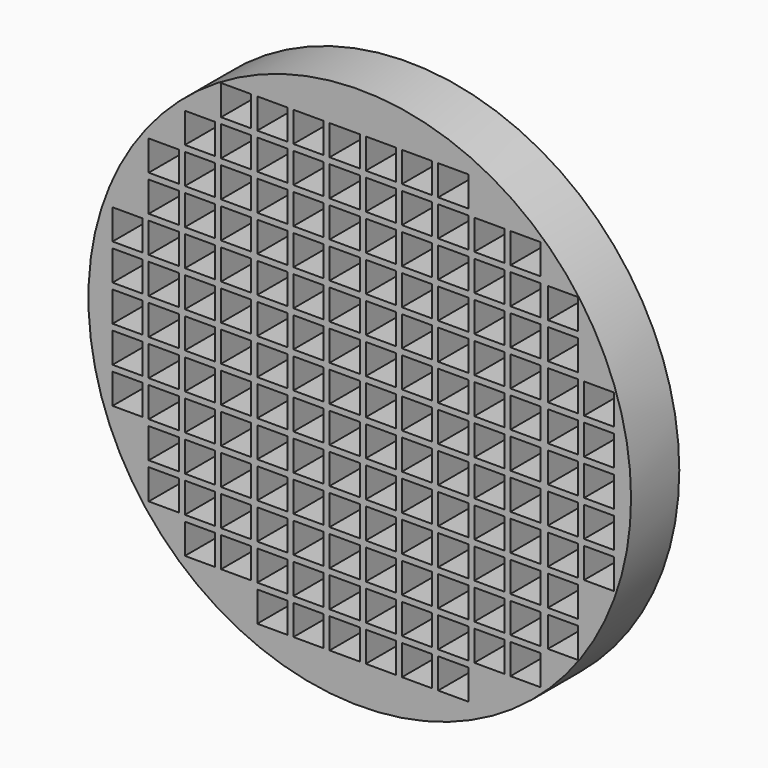
from build123d import *

# Parameters (mm, degrees)
F0_R     = 114.3
F1_DEPTH = 25.4
F2_W     = 12.7
F2_H     = 12.7
F3_DEPTH = 50.8


with BuildPart() as f1:
    # F0 (on Front) → F1 (new body)
    with BuildSketch(Plane.XZ):
        Circle(F0_R)
    extrude(amount=F1_DEPTH)

    # F2 (on face) → F3 (cut)
    with BuildSketch(Plane.XZ.offset(25.4)):
        with Locations((-67.31, 76.2)):
            Rectangle(F2_W, F2_H)
        with Locations((-67.31, 60.96)):
            Rectangle(F2_W, F2_H)
        with Locations((-67.31, 45.72)):
            Rectangle(F2_W, F2_H)
        with Locations((-67.31, 30.48)):
            Rectangle(F2_W, F2_H)
        with Locations((-67.31, 15.24)):
            Rectangle(F2_W, F2_H)
        with Locations((-67.31, 0)):
            Rectangle(F2_W, F2_H)
        with Locations((-67.31, -15.24)):
            Rectangle(F2_W, F2_H)
        with Locations((-67.31, -30.48)):
            Rectangle(F2_W, F2_H)
        with Locations((-67.31, -45.72)):
            Rectangle(F2_W, F2_H)
        with Locations((-67.31, -60.96)):
            Rectangle(F2_W, F2_H)
        with Locations((-52.07, 76.2)):
            Rectangle(F2_W, F2_H)
        with Locations((-52.07, 60.96)):
            Rectangle(F2_W, F2_H)
        with Locations((-52.07, 45.72)):
            Rectangle(F2_W, F2_H)
        with Locations((-52.07, 30.48)):
            Rectangle(F2_W, F2_H)
        with Locations((-52.07, 15.24)):
            Rectangle(F2_W, F2_H)
        with Locations((-52.07, 0)):
            Rectangle(F2_W, F2_H)
        with Locations((-52.07, -15.24)):
            Rectangle(F2_W, F2_H)
        with Locations((-52.07, -30.48)):
            Rectangle(F2_W, F2_H)
        with Locations((-52.07, -45.72)):
            Rectangle(F2_W, F2_H)
        with Locations((-52.07, -60.96)):
            Rectangle(F2_W, F2_H)
        with Locations((-36.83, 76.2)):
            Rectangle(F2_W, F2_H)
        with Locations((-36.83, 60.96)):
            Rectangle(F2_W, F2_H)
        with Locations((-36.83, 45.72)):
            Rectangle(F2_W, F2_H)
        with Locations((-36.83, 30.48)):
            Rectangle(F2_W, F2_H)
        with Locations((-36.83, 15.24)):
            Rectangle(F2_W, F2_H)
        with Locations((-36.83, 0)):
            Rectangle(F2_W, F2_H)
        with Locations((-36.83, -15.24)):
            Rectangle(F2_W, F2_H)
        with Locations((-36.83, -30.48)):
            Rectangle(F2_W, F2_H)
        with Locations((-36.83, -45.72)):
            Rectangle(F2_W, F2_H)
        with Locations((-36.83, -60.96)):
            Rectangle(F2_W, F2_H)
        with Locations((-21.59, 76.2)):
            Rectangle(F2_W, F2_H)
        with Locations((-21.59, 60.96)):
            Rectangle(F2_W, F2_H)
        with Locations((-21.59, 45.72)):
            Rectangle(F2_W, F2_H)
        with Locations((-21.59, 30.48)):
            Rectangle(F2_W, F2_H)
        with Locations((-21.59, 15.24)):
            Rectangle(F2_W, F2_H)
        with Locations((-21.59, 0)):
            Rectangle(F2_W, F2_H)
        with Locations((-21.59, -15.24)):
            Rectangle(F2_W, F2_H)
        with Locations((-21.59, -30.48)):
            Rectangle(F2_W, F2_H)
        with Locations((-21.59, -45.72)):
            Rectangle(F2_W, F2_H)
        with Locations((-21.59, -60.96)):
            Rectangle(F2_W, F2_H)
        with Locations((-6.35, 76.2)):
            Rectangle(F2_W, F2_H)
        with Locations((-6.35, 60.96)):
            Rectangle(F2_W, F2_H)
        with Locations((-6.35, 45.72)):
            Rectangle(F2_W, F2_H)
        with Locations((-6.35, 30.48)):
            Rectangle(F2_W, F2_H)
        with Locations((-6.35, 15.24)):
            Rectangle(F2_W, F2_H)
        with Locations((-6.35, 0)):
            Rectangle(F2_W, F2_H)
        with Locations((-6.35, -15.24)):
            Rectangle(F2_W, F2_H)
        with Locations((-6.35, -30.48)):
            Rectangle(F2_W, F2_H)
        with Locations((-6.35, -45.72)):
            Rectangle(F2_W, F2_H)
        with Locations((-6.35, -60.96)):
            Rectangle(F2_W, F2_H)
        with Locations((8.89, 76.2)):
            Rectangle(F2_W, F2_H)
        with Locations((8.89, 60.96)):
            Rectangle(F2_W, F2_H)
        with Locations((8.89, 45.72)):
            Rectangle(F2_W, F2_H)
        with Locations((8.89, 30.48)):
            Rectangle(F2_W, F2_H)
        with Locations((8.89, 15.24)):
            Rectangle(F2_W, F2_H)
        with Locations((8.89, 0)):
            Rectangle(F2_W, F2_H)
        with Locations((8.89, -15.24)):
            Rectangle(F2_W, F2_H)
        with Locations((8.89, -30.48)):
            Rectangle(F2_W, F2_H)
        with Locations((8.89, -45.72)):
            Rectangle(F2_W, F2_H)
        with Locations((8.89, -60.96)):
            Rectangle(F2_W, F2_H)
        with Locations((24.13, 76.2)):
            Rectangle(F2_W, F2_H)
        with Locations((24.13, 60.96)):
            Rectangle(F2_W, F2_H)
        with Locations((24.13, 45.72)):
            Rectangle(F2_W, F2_H)
        with Locations((24.13, 30.48)):
            Rectangle(F2_W, F2_H)
        with Locations((24.13, 15.24)):
            Rectangle(F2_W, F2_H)
        with Locations((24.13, 0)):
            Rectangle(F2_W, F2_H)
        with Locations((24.13, -15.24)):
            Rectangle(F2_W, F2_H)
        with Locations((24.13, -30.48)):
            Rectangle(F2_W, F2_H)
        with Locations((24.13, -45.72)):
            Rectangle(F2_W, F2_H)
        with Locations((24.13, -60.96)):
            Rectangle(F2_W, F2_H)
        with Locations((39.37, 76.2)):
            Rectangle(F2_W, F2_H)
        with Locations((39.37, 60.96)):
            Rectangle(F2_W, F2_H)
        with Locations((39.37, 45.72)):
            Rectangle(F2_W, F2_H)
        with Locations((39.37, 30.48)):
            Rectangle(F2_W, F2_H)
        with Locations((39.37, 15.24)):
            Rectangle(F2_W, F2_H)
        with Locations((39.37, 0)):
            Rectangle(F2_W, F2_H)
        with Locations((39.37, -15.24)):
            Rectangle(F2_W, F2_H)
        with Locations((39.37, -30.48)):
            Rectangle(F2_W, F2_H)
        with Locations((39.37, -45.72)):
            Rectangle(F2_W, F2_H)
        with Locations((39.37, -60.96)):
            Rectangle(F2_W, F2_H)
        with Locations((54.61, 76.2)):
            Rectangle(F2_W, F2_H)
        with Locations((54.61, 60.96)):
            Rectangle(F2_W, F2_H)
        with Locations((54.61, 45.72)):
            Rectangle(F2_W, F2_H)
        with Locations((54.61, 30.48)):
            Rectangle(F2_W, F2_H)
        with Locations((54.61, 15.24)):
            Rectangle(F2_W, F2_H)
        with Locations((54.61, 0)):
            Rectangle(F2_W, F2_H)
        with Locations((54.61, -15.24)):
            Rectangle(F2_W, F2_H)
        with Locations((54.61, -30.48)):
            Rectangle(F2_W, F2_H)
        with Locations((54.61, -45.72)):
            Rectangle(F2_W, F2_H)
        with Locations((54.61, -60.96)):
            Rectangle(F2_W, F2_H)
        with Locations((69.85, 76.2)):
            Rectangle(F2_W, F2_H)
        with Locations((69.85, 60.96)):
            Rectangle(F2_W, F2_H)
        with Locations((69.85, 45.72)):
            Rectangle(F2_W, F2_H)
        with Locations((69.85, 30.48)):
            Rectangle(F2_W, F2_H)
        with Locations((69.85, 15.24)):
            Rectangle(F2_W, F2_H)
        with Locations((69.85, 0)):
            Rectangle(F2_W, F2_H)
        with Locations((69.85, -15.24)):
            Rectangle(F2_W, F2_H)
        with Locations((69.85, -30.48)):
            Rectangle(F2_W, F2_H)
        with Locations((69.85, -45.72)):
            Rectangle(F2_W, F2_H)
        with Locations((69.85, -60.96)):
            Rectangle(F2_W, F2_H)
        with Locations((-82.55, -60.96)):
            Rectangle(F2_W, F2_H)
        with Locations((-82.55, -45.72)):
            Rectangle(F2_W, F2_H)
        with Locations((-82.55, -30.48)):
            Rectangle(F2_W, F2_H)
        with Locations((-82.55, -15.24)):
            Rectangle(F2_W, F2_H)
        with Locations((-82.55, 0)):
            Rectangle(F2_W, F2_H)
        with Locations((-82.55, 15.24)):
            Rectangle(F2_W, F2_H)
        with Locations((-82.55, 30.48)):
            Rectangle(F2_W, F2_H)
        with Locations((-82.55, 45.72)):
            Rectangle(F2_W, F2_H)
        with Locations((-82.55, 60.96)):
            Rectangle(F2_W, F2_H)
        with Locations((-97.79, -30.48)):
            Rectangle(F2_W, F2_H)
        with Locations((-97.79, -15.24)):
            Rectangle(F2_W, F2_H)
        with Locations((-97.79, 0)):
            Rectangle(F2_W, F2_H)
        with Locations((-97.79, 15.24)):
            Rectangle(F2_W, F2_H)
        with Locations((-97.79, 30.48)):
            Rectangle(F2_W, F2_H)
        with Locations((85.612413, -60.96)):
            Rectangle(F2_W, F2_H)
        with Locations((85.612413, -45.72)):
            Rectangle(F2_W, F2_H)
        with Locations((85.612413, -30.48)):
            Rectangle(F2_W, F2_H)
        with Locations((85.612413, -15.24)):
            Rectangle(F2_W, F2_H)
        with Locations((85.612413, 0)):
            Rectangle(F2_W, F2_H)
        with Locations((85.612413, 15.24)):
            Rectangle(F2_W, F2_H)
        with Locations((85.612413, 30.48)):
            Rectangle(F2_W, F2_H)
        with Locations((85.612413, 45.72)):
            Rectangle(F2_W, F2_H)
        with Locations((85.612413, 60.96)):
            Rectangle(F2_W, F2_H)
        with Locations((100.852413, -30.48)):
            Rectangle(F2_W, F2_H)
        with Locations((100.852413, -15.24)):
            Rectangle(F2_W, F2_H)
        with Locations((100.852413, 0)):
            Rectangle(F2_W, F2_H)
        with Locations((100.852413, 15.24)):
            Rectangle(F2_W, F2_H)
        with Locations((100.852413, 30.48)):
            Rectangle(F2_W, F2_H)
        with Locations((-52.07, 91.44)):
            Rectangle(F2_W, F2_H)
        with Locations((-36.83, 91.44)):
            Rectangle(F2_W, F2_H)
        with Locations((-21.59, 91.44)):
            Rectangle(F2_W, F2_H)
        with Locations((-6.35, 91.44)):
            Rectangle(F2_W, F2_H)
        with Locations((8.89, 91.44)):
            Rectangle(F2_W, F2_H)
        with Locations((24.13, 91.44)):
            Rectangle(F2_W, F2_H)
        with Locations((39.37, 91.44)):
            Rectangle(F2_W, F2_H)
        with Locations((-67.31, -76.2)):
            Rectangle(F2_W, F2_H)
        with Locations((-52.07, -76.2)):
            Rectangle(F2_W, F2_H)
        with Locations((-36.83, -76.2)):
            Rectangle(F2_W, F2_H)
        with Locations((-36.83, -91.44)):
            Rectangle(F2_W, F2_H)
        with Locations((-21.59, -76.2)):
            Rectangle(F2_W, F2_H)
        with Locations((-21.59, -91.44)):
            Rectangle(F2_W, F2_H)
        with Locations((-6.35, -76.2)):
            Rectangle(F2_W, F2_H)
        with Locations((-6.35, -91.44)):
            Rectangle(F2_W, F2_H)
        with Locations((8.89, -76.2)):
            Rectangle(F2_W, F2_H)
        with Locations((8.89, -91.44)):
            Rectangle(F2_W, F2_H)
        with Locations((24.13, -76.2)):
            Rectangle(F2_W, F2_H)
        with Locations((24.13, -91.44)):
            Rectangle(F2_W, F2_H)
        with Locations((39.37, -76.2)):
            Rectangle(F2_W, F2_H)
        with Locations((39.37, -91.44)):
            Rectangle(F2_W, F2_H)
        with Locations((54.61, -76.2)):
            Rectangle(F2_W, F2_H)
        with Locations((69.85, -76.2)):
            Rectangle(F2_W, F2_H)
    extrude(amount=-F3_DEPTH, mode=Mode.SUBTRACT)


solid = f1.part
